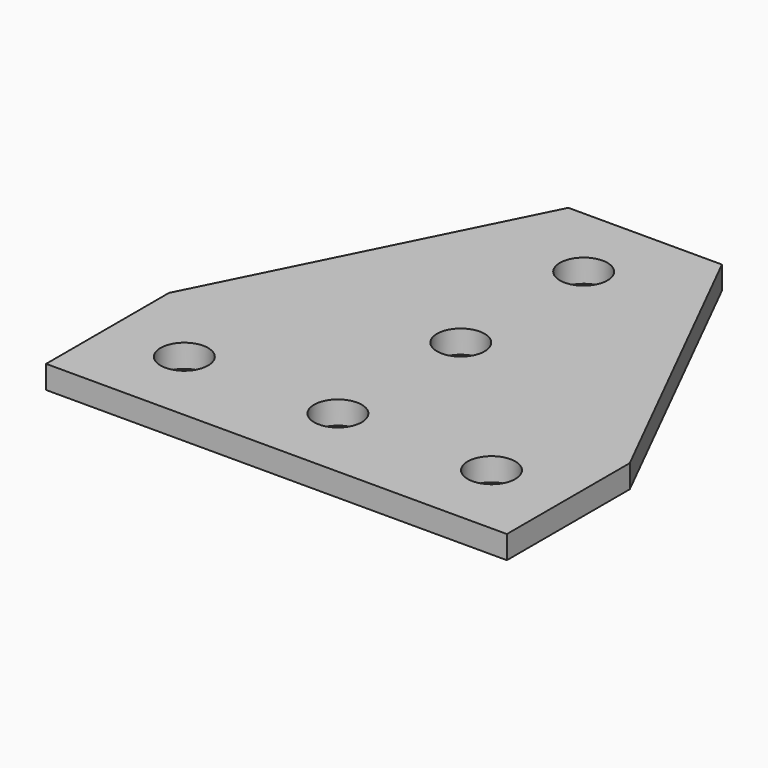
from build123d import *

# Parameters (mm, degrees)
SKETCH_R  = 3.1
PAD_DEPTH = 3


with BuildPart() as part:
    # Sketch → Pad (new body)
    with BuildSketch(Plane.XY):
        Polygon((0, 0), (60, 0), (60, 20), (40, 60), (20, 60), (0, 20), align=None)
        with Locations((10, 10)):
            Circle(SKETCH_R, mode=Mode.SUBTRACT)
        with Locations((30, 10)):
            Circle(SKETCH_R, mode=Mode.SUBTRACT)
        with Locations((50, 10)):
            Circle(SKETCH_R, mode=Mode.SUBTRACT)
        with Locations((30, 30)):
            Circle(SKETCH_R, mode=Mode.SUBTRACT)
        with Locations((30, 50)):
            Circle(SKETCH_R, mode=Mode.SUBTRACT)
    extrude(amount=PAD_DEPTH)


solid = part.part
